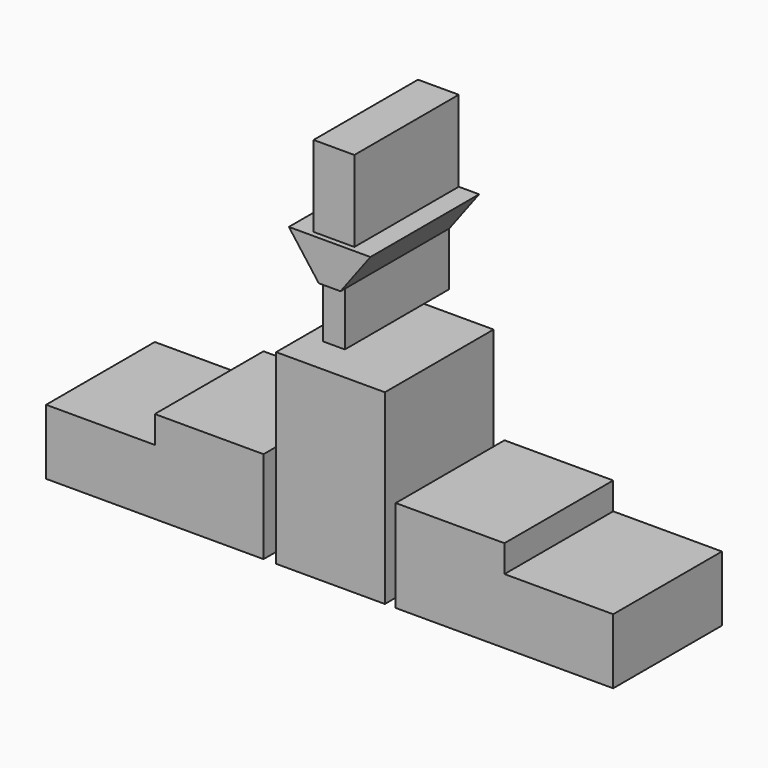
from build123d import *

# Parameters (mm, degrees)
F0_W     = 20
F0_H     = 34.286152
F0_H_2   = 5
F1_DEPTH = 25
F2_DEPTH = 1


with BuildPart() as f1:
    # F0 (on Front) → F1 (new body)
    with BuildSketch(Plane.XZ):
        with Locations((77.048486, 25.803229)):
            Rectangle(F0_W, F0_H)
        Polygon((89.048486, 20.660153), (89.048486, 8.660153), (129.048486, 8.660153), (129.048486, 20.660153), (109.048486, 20.660153), align=None)
        with Locations((99.048486, 23.160153)):
            Rectangle(F0_W, F0_H_2)
        Polygon((78.887447, 56.650452), (84.387447, 63.983785), (80.637447, 63.983785), (76.887447, 63.983785), (73.137447, 63.983785), (69.387447, 63.983785), (74.887447, 56.650452), align=None)
        Polygon((78.887447, 51.150424), (78.887447, 56.650452), (74.887447, 56.650452), (74.887447, 51.150424), (74.887447, 46.817146), (78.887447, 46.817146), align=None)
        Polygon((76.887447, 63.983785), (80.637447, 63.983785), (80.637447, 78.883611), (73.137447, 78.883611), (73.137447, 63.983785), align=None)
        with Locations((54.726408, 23.160153)):
            Rectangle(F0_W, F0_H_2)
        Polygon((64.726408, 20.660153), (44.726408, 20.660153), (24.726408, 20.660153), (24.726408, 8.660153), (64.726408, 8.660153), align=None)
    extrude(amount=-F1_DEPTH)

    # F0 (on Front) → F2 (cut)
    with BuildSketch(Plane.XZ):
        Polygon((78.887447, 51.150424), (78.887447, 56.650452), (74.887447, 56.650452), (74.887447, 51.150424), (74.887447, 46.817146), (78.887447, 46.817146), align=None)
        Polygon((76.887447, 63.983785), (80.637447, 63.983785), (80.637447, 78.883611), (73.137447, 78.883611), (73.137447, 63.983785), align=None)
    extrude(amount=-F2_DEPTH, mode=Mode.SUBTRACT)


solid = f1.part
